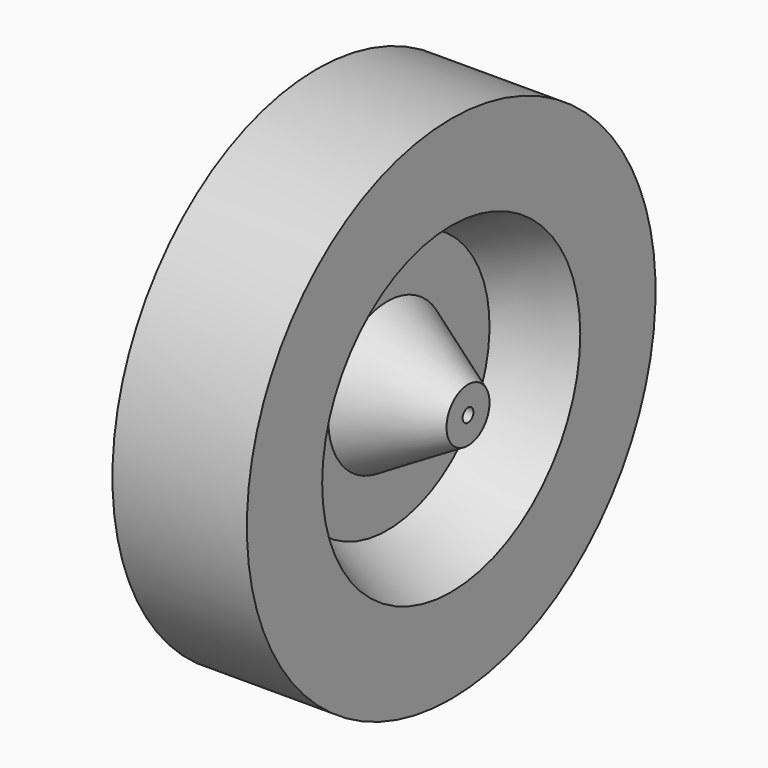
from build123d import *


with BuildPart() as f1:
    # F0 (on Front) → F1 (revolve)
    with BuildSketch(Plane.XZ):
        Polygon((0, 482.6), (0, 12.7), (158.75, 12.7), (158.75, 50.8), (6.35, 139.7), (6.35, 241.3), (127, 304.8), (127, 482.6), align=None)
        Polygon((-158.75, 12.7), (0, 12.7), (0, 482.6), (-127, 482.6), (-127, 304.8), (-6.35, 241.3), (-6.35, 139.7), (-158.75, 50.8), align=None)
    revolve(axis=Axis((-79.375, 0, 0), (-1, 0, 0)))


solid = f1.part
